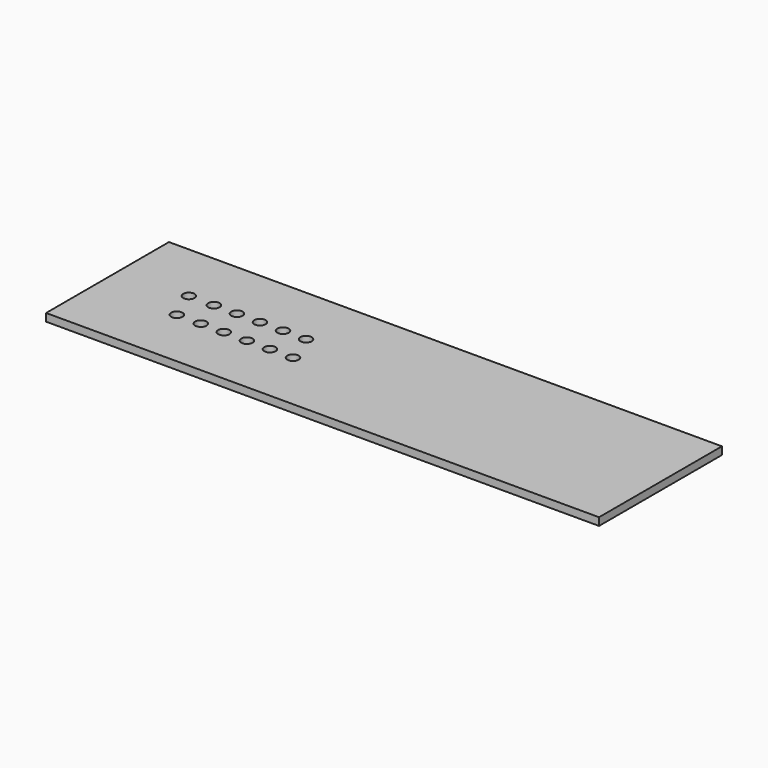
from build123d import *

# Parameters (mm, degrees)
F0_W     = 457.2
F0_H     = 127
F0_R     = 4.699
F1_DEPTH = 6.35


with BuildPart() as f1:
    # F0 (on Top) → F1 (new body)
    with BuildSketch(Plane.XY):
        with Locations((228.6, 63.5)):
            Rectangle(F0_W, F0_H)
        with Locations((67.46875, 50.8)):
            Circle(F0_R, mode=Mode.SUBTRACT)
        with Locations((87.3125, 50.8)):
            Circle(F0_R, mode=Mode.SUBTRACT)
        with Locations((106.3625, 50.8)):
            Circle(F0_R, mode=Mode.SUBTRACT)
        with Locations((125.4125, 50.8)):
            Circle(F0_R, mode=Mode.SUBTRACT)
        with Locations((144.4625, 50.8)):
            Circle(F0_R, mode=Mode.SUBTRACT)
        with Locations((163.5125, 50.8)):
            Circle(F0_R, mode=Mode.SUBTRACT)
        with Locations((57.15, 76.2)):
            Circle(F0_R, mode=Mode.SUBTRACT)
        with Locations((77.7875, 76.2)):
            Circle(F0_R, mode=Mode.SUBTRACT)
        with Locations((96.8375, 76.2)):
            Circle(F0_R, mode=Mode.SUBTRACT)
        with Locations((115.8875, 76.2)):
            Circle(F0_R, mode=Mode.SUBTRACT)
        with Locations((134.9375, 76.2)):
            Circle(F0_R, mode=Mode.SUBTRACT)
        with Locations((153.9875, 76.2)):
            Circle(F0_R, mode=Mode.SUBTRACT)
    extrude(amount=F1_DEPTH)


solid = f1.part
